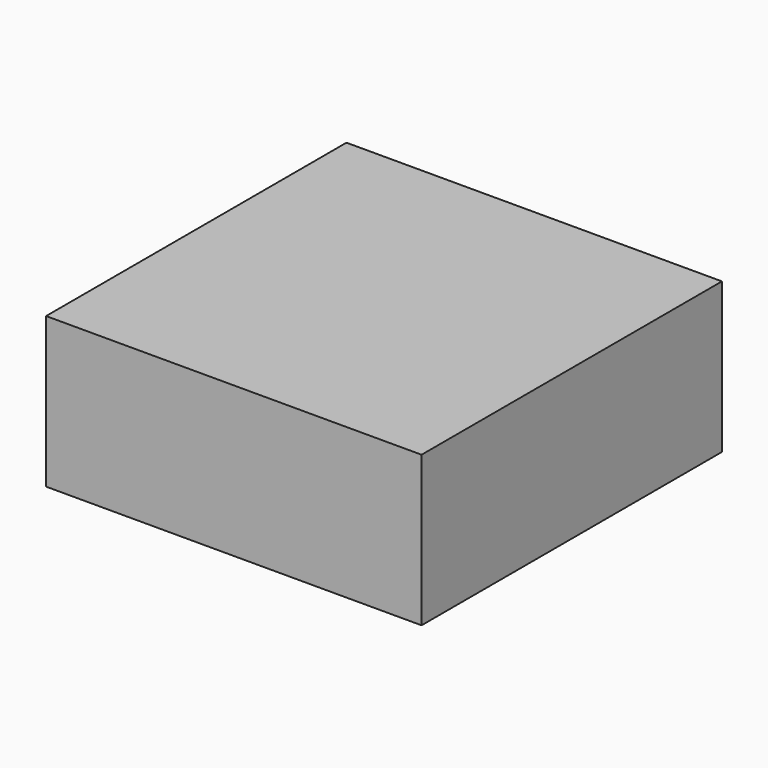
from build123d import *

# Parameters (mm, degrees)
F0_W     = 25
F0_H     = 25
F1_DEPTH = 25.4
F4_DEPTH = 10


with BuildPart() as f1:
    # F0 (on Top) → F1 (new body)
    with BuildSketch(Plane.XY):
        with Locations((-12.5, 12.5)):
            Rectangle(F0_W, F0_H)
    extrude(amount=F1_DEPTH)


with BuildPart() as f4:
    # F0 (on Top) → F4 (new body)
    with BuildSketch(Plane.XY):
        with Locations((-12.5, 12.5)):
            Rectangle(F0_W, F0_H)
    extrude(amount=F4_DEPTH)


solid = f4.part
